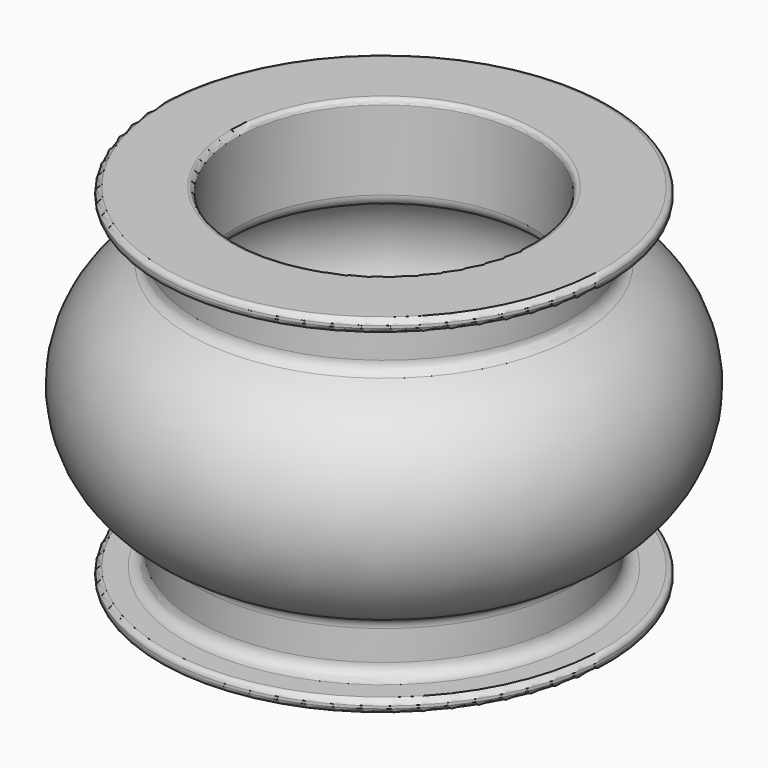
from build123d import *


with BuildPart() as f1:
    # F0 (on Right) → F1 (revolve)
    with BuildSketch(Plane.YZ):
        with BuildLine():
            Line((-85.5, 0), (-59.5, 0))
            ThreePointArc((-59.5, 0), (-58.085786, 0.585786), (-57.5, 2))
            Line((-57.5, 2), (-57.5, 32.785391))
            ThreePointArc((-57.5, 32.785391), (-58.720355, 36.058659), (-61.785714, 37.734107))
            ThreePointArc((-61.785714, 37.734107), (-87.5, 67.426407), (-61.785714, 97.118706))
            ThreePointArc((-61.785714, 97.118706), (-58.720355, 98.794155), (-57.5, 102.067423))
            Line((-57.5, 102.067423), (-57.5, 132.852814))
            ThreePointArc((-57.5, 132.852814), (-58.085786, 134.267027), (-59.5, 134.852814))
            Line((-59.5, 134.852814), (-85.5, 134.852814))
            ThreePointArc((-85.5, 134.852814), (-86.914214, 134.267027), (-87.5, 132.852814))
            Line((-87.5, 132.852814), (-87.5, 131.852814))
            ThreePointArc((-87.5, 131.852814), (-86.914214, 130.4386), (-85.5, 129.852814))
            Line((-85.5, 129.852814), (-77.5, 129.852814))
            ThreePointArc((-77.5, 129.852814), (-73.964466, 128.388348), (-72.5, 124.852814))
            Line((-72.5, 124.852814), (-72.5, 113.252164))
            ThreePointArc((-72.5, 113.252164), (-73.3167, 110.513551), (-75.5, 108.669588))
            ThreePointArc((-75.5, 108.669588), (-102.5, 67.426407), (-75.5, 26.183226))
            ThreePointArc((-75.5, 26.183226), (-73.3167, 24.339263), (-72.5, 21.60065))
            Line((-72.5, 21.60065), (-72.5, 10))
            ThreePointArc((-72.5, 10), (-73.964466, 6.464466), (-77.5, 5))
            Line((-77.5, 5), (-85.5, 5))
            ThreePointArc((-85.5, 5), (-86.914214, 4.414214), (-87.5, 3))
            Line((-87.5, 3), (-87.5, 2))
            ThreePointArc((-87.5, 2), (-86.914214, 0.585786), (-85.5, 0))
        make_face()
    revolve(axis=Axis((0, 0, 3.559314), (0, 0, -1)))


solid = f1.part
